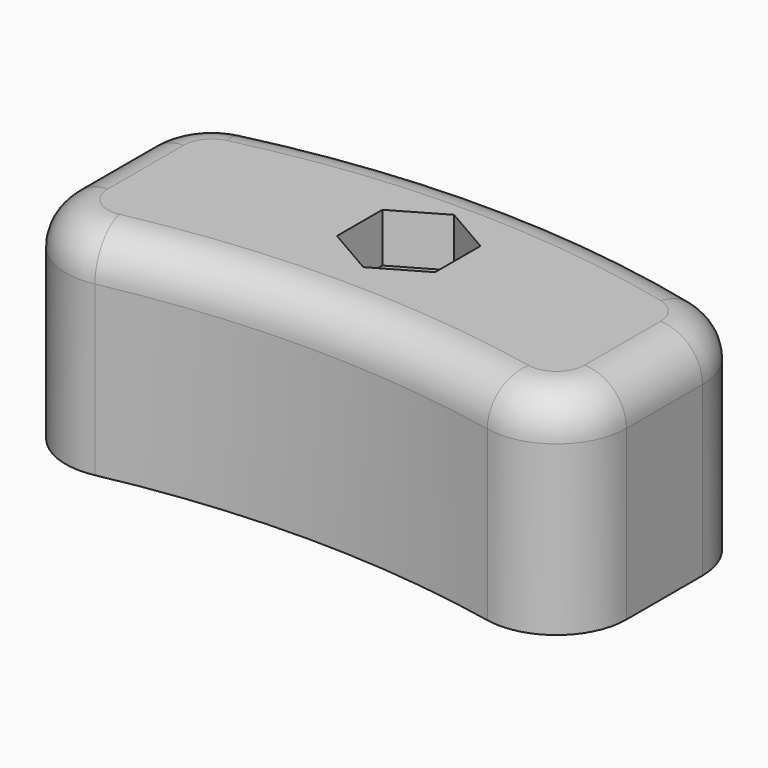
from build123d import *

# Parameters (mm, degrees)
F0_W     = 40
F0_H     = 20
F1_DEPTH = 15
F3_DEPTH = 3.5
F5_DEPTH = 15.001
F6_R     = 2
F7_DEPTH = 11.501
F8_R     = 5
F9_R     = 2.9936248173


with BuildPart() as f1:
    # F0 (on Top) → F1 (new body)
    with BuildSketch(Plane.XY):
        Rectangle(F0_W, F0_H)
    extrude(amount=-F1_DEPTH)

    # F2 (on face) → F3 (cut)
    with BuildSketch(Plane.XY):
        Polygon((3.5, -0.0207259422), (3.5, 4.0207259422), (0, 6.0414518843), (-3.5, 4.0207259422), (-3.5, -0.0207259422), (0, -2.0414518843), align=None)
    extrude(amount=-F3_DEPTH, mode=Mode.SUBTRACT)

    # F4 (on face) → F5 (cut, through all)
    with BuildSketch(Plane.XY):
        with BuildLine():
            ThreePointArc((-20, 7), (0, 9.9805733622), (20, 7))
            Line((20, 7), (20, 10))
            Line((20, 10), (-20, 10))
            Line((-20, 10), (-20, 7))
        make_face()
        with BuildLine():
            Line((-20, -10), (20, -10))
            ThreePointArc((20, -10), (0, -7.0601321922), (-20, -10))
        make_face()
    extrude(amount=-F5_DEPTH, mode=Mode.SUBTRACT)

    # F6 (on face) → F7 (cut, through all)
    with BuildSketch(Plane.XY.offset(-3.5)):
        with Locations((0, 2)):
            Circle(F6_R)
    extrude(amount=-F7_DEPTH, mode=Mode.SUBTRACT)

    # F8
    f8_edges = [f1.edges().sort_by_distance(p)[0] for p in [
        (-20, 7, -7.5),
        (20, 7, -7.5),
        (-20, -10, -7.5),
        (20, -10, -7.5),
    ]]
    fillet(f8_edges, radius=F8_R)

    # F9
    f9_edges = [f1.edges().sort_by_distance(p)[0] for p in [
        (0, 9.980573, 0),
        (-20, -0.199833, 0),
        (20, -0.199833, 0),
        (0, -7.060132, 0),
    ]]
    fillet(f9_edges, radius=F9_R)


solid = f1.part
